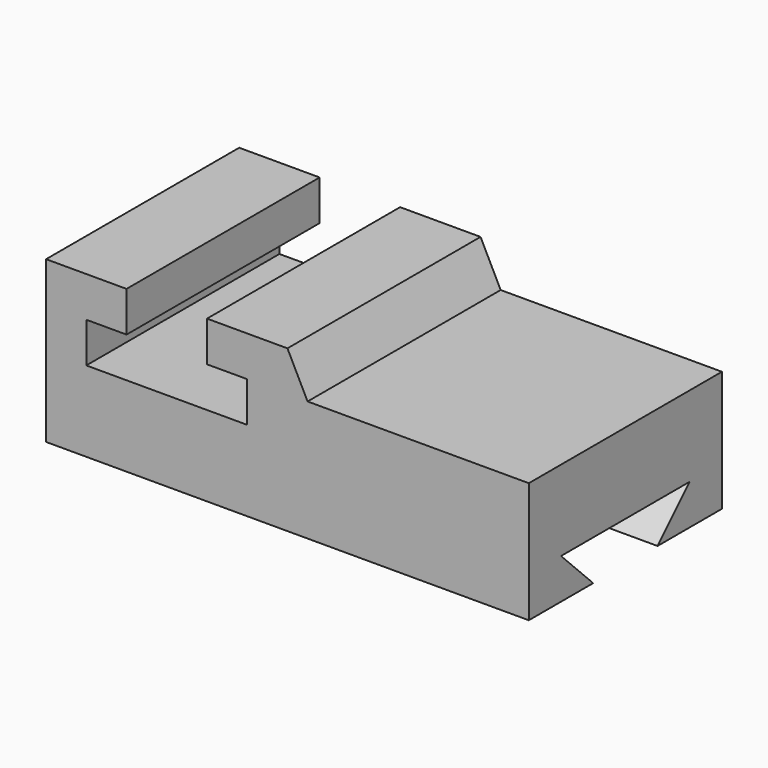
from build123d import *

# Parameters (mm, degrees)
F1_DEPTH = 38.1
F3_DEPTH = 76.201
F5_DEPTH = 152.401


with BuildPart() as f1:
    # F0 (on Front) → F1 (new body, symmetric)
    with BuildSketch(Plane.XZ):
        Polygon((-76.2, 0), (0, 0), (76.2, 0), (76.2, 38.1), (6.35, 38.1), (0, 50.8), (-76.2, 50.8), align=None)
    extrude(amount=F1_DEPTH, both=True)

    # F2 (on face) → F3 (cut, through all)
    with BuildSketch(Plane.XZ.offset(38.1)):
        Polygon((-25.4, 50.8), (-50.8, 50.8), (-50.8, 38.1), (-63.5, 38.1), (-63.5, 25.4), (-12.7, 25.4), (-12.7, 38.1), (-25.4, 38.1), align=None)
    extrude(amount=-F3_DEPTH, mode=Mode.SUBTRACT)

    # F4 (on face) → F5 (cut, through all)
    with BuildSketch(Plane.YZ.offset(76.2)):
        Polygon((-25.4, 12.7), (-12.7, 0), (12.7, 0), (25.4, 12.7), align=None)
    extrude(amount=-F5_DEPTH, mode=Mode.SUBTRACT)


solid = f1.part
